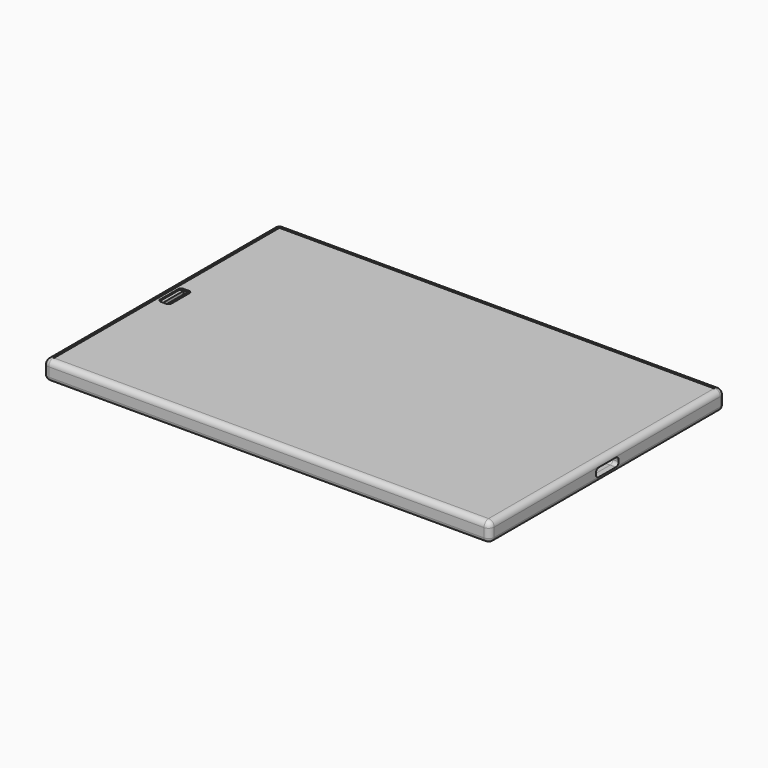
from build123d import *

# Parameters (mm, degrees)
BOX005_W          = 147
BOX005_H          = 97
BOX005_DEPTH      = 1
CYLINDER008_R     = 1
CYLINDER008_DEPTH = 10
CYLINDER006_R     = 5
CYLINDER006_DEPTH = 10
CYLINDER007_R     = 2.5
CYLINDER007_DEPTH = 10
BOX008_W          = 154
BOX008_H          = 100
BOX008_DEPTH      = 1.5
BOX007_W          = 4
BOX007_H          = 10
BOX007_DEPTH      = 10
FILLET001_R       = 1
BOX006_W          = 154
BOX006_H          = 100
BOX006_DEPTH      = 0.5
BOX011_W          = 50
BOX011_H          = 98
BOX011_DEPTH      = 2
BOX012_W          = 81
BOX012_H          = 98
BOX012_DEPTH      = 3.5
BOX015_W          = 11
BOX015_H          = 10
BOX015_DEPTH      = 3
FILLET003_R       = 1.2
BOX014_W          = 2
BOX014_H          = 87
BOX014_DEPTH      = 10
BOX010_W          = 29
BOX010_H          = 5
BOX010_DEPTH      = 3
BOX009_W          = 8
BOX009_H          = 5
BOX009_DEPTH      = 3
BOX004_W          = 5
BOX004_H          = 3
BOX004_DEPTH      = 10
FILLET_R          = 1.4
CYLINDER005_R     = 2.5
CYLINDER005_DEPTH = 10
CYLINDER004_R     = 2
CYLINDER004_DEPTH = 10
CYLINDER003_R     = 1
CYLINDER003_DEPTH = 10
BOX003_W          = 1.5
BOX003_H          = 10
BOX003_DEPTH      = 14
BOX002_W          = 2
BOX002_H          = 21
BOX002_DEPTH      = 10
CYLINDER002_R     = 5
CYLINDER002_DEPTH = 10
CYLINDER001_R     = 5
CYLINDER001_DEPTH = 10
CYLINDER_R        = 5
CYLINDER_DEPTH    = 10
BOX001_W          = 154
BOX001_H          = 100
BOX001_DEPTH      = 10
BOX_W             = 154
BOX_H             = 100
BOX_DEPTH         = 4.7
THICKNESS_T       = 2
FILLET002_R       = 1.5
BOX013_W          = 19
BOX013_H          = 100
BOX013_DEPTH      = 4


with BuildPart() as pantalla:
    # Box005 → Box005 (new body)
    with BuildSketch(Plane(origin=(7, 1.5, 5), x_dir=(1, 0, 0), z_dir=(0, 0, 1))):
        with Locations((73.5, 48.5)):
            Rectangle(BOX005_W, BOX005_H)
    extrude(amount=BOX005_DEPTH)


with BuildPart() as cilindro008:
    # Cylinder008 → Cylinder008 (new body)
    with BuildSketch(Plane(origin=(10, 41, 0), x_dir=(1, 0, 0), z_dir=(0, 0, 1))):
        Circle(CYLINDER008_R)
    extrude(amount=CYLINDER008_DEPTH)


with BuildPart() as cilindro006:
    # Cylinder006 → Cylinder006 (new body)
    with BuildSketch(Plane(origin=(10, 50, -7), x_dir=(1, 0, 0), z_dir=(0, 0, 1))):
        Circle(CYLINDER006_R)
    extrude(amount=CYLINDER006_DEPTH)


with BuildPart() as cilindro007:
    # Cylinder007 → Cylinder007 (new body)
    with BuildSketch(Plane(origin=(20, 50, -7), x_dir=(1, 0, 0), z_dir=(0, 0, 1))):
        Circle(CYLINDER007_R)
    extrude(amount=CYLINDER007_DEPTH)


with BuildPart() as obj1:
    # Box008 → Box008 (new body)
    with BuildSketch(Plane.XY):
        with Locations((77, 50)):
            Rectangle(BOX008_W, BOX008_H)
    extrude(amount=BOX008_DEPTH)

    # Cut014: cut Cilindro007
    add(cilindro007.part, mode=Mode.SUBTRACT)

    # Cut015: cut Cilindro006
    add(cilindro006.part, mode=Mode.SUBTRACT)

    # Cut016: cut Cilindro008
    add(cilindro008.part, mode=Mode.SUBTRACT)


with BuildPart() as fillet001:
    # Box007 → Box007 (new body)
    with BuildSketch(Plane(origin=(1, 45, 6), x_dir=(1, 0, 0), z_dir=(0, 0, 1))):
        with Locations((2, 5)):
            Rectangle(BOX007_W, BOX007_H)
    extrude(amount=BOX007_DEPTH)

    # Fillet001
    fillet001_edges = [fillet001.edges().sort_by_distance(p)[0] for p in [
        (1, 45, 11),
        (1, 55, 11),
        (5, 45, 11),
        (5, 55, 11),
    ]]
    fillet(fillet001_edges, radius=FILLET001_R)


with BuildPart() as touch:
    # Box006 → Box006 (new body)
    with BuildSketch(Plane.XY.offset(6)):
        with Locations((77, 50)):
            Rectangle(BOX006_W, BOX006_H)
    extrude(amount=BOX006_DEPTH)

    # Cut019: cut Fillet001
    add(fillet001.part, mode=Mode.SUBTRACT)


with BuildPart() as electronics:
    # Box011 → Box011 (new body)
    with BuildSketch(Plane(origin=(0, 1, 2.5), x_dir=(1, 0, 0), z_dir=(0, 0, 1))):
        with Locations((25, 49)):
            Rectangle(BOX011_W, BOX011_H)
    extrude(amount=BOX011_DEPTH)


with BuildPart() as battery:
    # Box012 → Box012 (new body)
    with BuildSketch(Plane(origin=(53, 1, 1), x_dir=(1, 0, 0), z_dir=(0, 0, 1))):
        with Locations((40.5, 49)):
            Rectangle(BOX012_W, BOX012_H)
    extrude(amount=BOX012_DEPTH)


with BuildPart() as fillet003:
    # Box015 → Box015 (new body)
    with BuildSketch(Plane(origin=(148, 45, 1.5), x_dir=(1, 0, 0), z_dir=(0, 0, 1))):
        with Locations((5.5, 5)):
            Rectangle(BOX015_W, BOX015_H)
    extrude(amount=BOX015_DEPTH)

    # Fillet003
    fillet003_edges = [fillet003.edges().sort_by_distance(p)[0] for p in [
        (148, 45, 3),
        (148, 55, 3),
        (159, 45, 3),
        (159, 55, 3),
        (153.5, 45, 1.5),
        (153.5, 45, 4.5),
        (153.5, 55, 1.5),
        (153.5, 55, 4.5),
    ]]
    fillet(fillet003_edges, radius=FILLET003_R)


with BuildPart() as cubo010:
    # Box014 → Box014 (new body)
    with BuildSketch(Plane(origin=(132, 6, 1), x_dir=(1, 0, 0), z_dir=(0, 0, 1))):
        with Locations((1, 43.5)):
            Rectangle(BOX014_W, BOX014_H)
    extrude(amount=BOX014_DEPTH)


with BuildPart() as cubo009:
    # Box010 → Box010 (new body)
    with BuildSketch(Plane(origin=(41, 100, 1), x_dir=(1, 0, 0), z_dir=(0, 0, 1))):
        with Locations((14.5, 2.5)):
            Rectangle(BOX010_W, BOX010_H)
    extrude(amount=BOX010_DEPTH)


with BuildPart() as cubo008:
    # Box009 → Box009 (new body)
    with BuildSketch(Plane(origin=(75, 100, 1), x_dir=(1, 0, 0), z_dir=(0, 0, 1))):
        with Locations((4, 2.5)):
            Rectangle(BOX009_W, BOX009_H)
    extrude(amount=BOX009_DEPTH)


with BuildPart() as fillet_body:
    # Box004 → Box004 (new body)
    with BuildSketch(Plane(origin=(0.5, 58, 0), x_dir=(1, 0, 0), z_dir=(0, 0, 1))):
        with Locations((2.5, 1.5)):
            Rectangle(BOX004_W, BOX004_H)
    extrude(amount=BOX004_DEPTH)

    # Fillet
    fillet_edges = [fillet_body.edges().sort_by_distance(p)[0] for p in [
        (0.5, 58, 5),
        (0.5, 61, 5),
        (5.5, 58, 5),
        (5.5, 61, 5),
    ]]
    fillet(fillet_edges, radius=FILLET_R)


with BuildPart() as fillet_body_1:
    # Fillet placement: moved
    add(fillet_body.part.moved(Location((0, 2, 0))))


with BuildPart() as cilindro005:
    # Cylinder005 → Cylinder005 (new body)
    with BuildSketch(Plane(origin=(3.5, 69, -4.5), x_dir=(1, 0, 0), z_dir=(0, 0, 1))):
        Circle(CYLINDER005_R)
    extrude(amount=CYLINDER005_DEPTH)


with BuildPart() as cilindro004:
    # Cylinder004 → Cylinder004 (new body)
    with BuildSketch(Plane(origin=(3.4, 69, 0), x_dir=(1, 0, 0), z_dir=(0, 0, 1))):
        Circle(CYLINDER004_R)
    extrude(amount=CYLINDER004_DEPTH)


with BuildPart() as cilindro003:
    # Cylinder003 → Cylinder003 (new body)
    with BuildSketch(Plane(origin=(3, 97, 0), x_dir=(1, 0, 0), z_dir=(0, 0, 1))):
        Circle(CYLINDER003_R)
    extrude(amount=CYLINDER003_DEPTH)


with BuildPart() as cubo003:
    # Box003 → Box003 (new body)
    with BuildSketch(Plane(origin=(2, 45, 0), x_dir=(1, 0, 0), z_dir=(0, 0, 1))):
        with Locations((0.75, 5)):
            Rectangle(BOX003_W, BOX003_H)
    extrude(amount=BOX003_DEPTH)


with BuildPart() as cubo002:
    # Box002 → Box002 (new body)
    with BuildSketch(Plane(origin=(1, 2, 0), x_dir=(1, 0, 0), z_dir=(0, 0, 1))):
        with Locations((1, 10.5)):
            Rectangle(BOX002_W, BOX002_H)
    extrude(amount=BOX002_DEPTH)


with BuildPart() as cilindro002:
    # Cylinder002 → Cylinder002 (new body)
    with BuildSketch(Plane(origin=(101, 15, 0), x_dir=(1, 0, 0), z_dir=(0, 0, 1))):
        Circle(CYLINDER002_R)
    extrude(amount=CYLINDER002_DEPTH)


with BuildPart() as cilindro001:
    # Cylinder001 → Cylinder001 (new body)
    with BuildSketch(Plane(origin=(101, 83, 0), x_dir=(1, 0, 0), z_dir=(0, 0, 1))):
        Circle(CYLINDER001_R)
    extrude(amount=CYLINDER001_DEPTH)


with BuildPart() as cilindro:
    # Cylinder → Cylinder (new body)
    with BuildSketch(Plane(origin=(125, 47, 0), x_dir=(1, 0, 0), z_dir=(0, 0, 1))):
        Circle(CYLINDER_R)
    extrude(amount=CYLINDER_DEPTH)


with BuildPart() as cubo001:
    # Box001 → Box001 (new body)
    with BuildSketch(Plane.XY.offset(5.8)):
        with Locations((77, 50)):
            Rectangle(BOX001_W, BOX001_H)
    extrude(amount=BOX001_DEPTH)


with BuildPart() as cut021:
    # Box → Box (new body)
    with BuildSketch(Plane.XY):
        with Locations((77, 50)):
            Rectangle(BOX_W, BOX_H)
    extrude(amount=BOX_DEPTH)

    # Thickness
    thickness_openings = [cut021.faces().sort_by_distance(p)[0] for p in [
        (77, 50, 0),
    ]]
    offset(amount=THICKNESS_T, openings=thickness_openings)

    # Cut: cut Cubo001
    add(cubo001.part, mode=Mode.SUBTRACT)

    # Cut001: cut Cilindro
    add(cilindro.part, mode=Mode.SUBTRACT)

    # Cut002: cut Cilindro001
    add(cilindro001.part, mode=Mode.SUBTRACT)

    # Cut003: cut Cilindro002
    add(cilindro002.part, mode=Mode.SUBTRACT)

    # Cut004: cut Cubo002
    add(cubo002.part, mode=Mode.SUBTRACT)

    # Cut005: cut Cubo003
    add(cubo003.part, mode=Mode.SUBTRACT)

    # Cut006: cut Cilindro003
    add(cilindro003.part, mode=Mode.SUBTRACT)

    # Cut007: cut Cilindro004
    add(cilindro004.part, mode=Mode.SUBTRACT)

    # Cut008: cut Cilindro005
    add(cilindro005.part, mode=Mode.SUBTRACT)

    # Cut009: cut Fillet body
    add(fillet_body_1.part, mode=Mode.SUBTRACT)

    # Fillet002
    fillet002_edges = [cut021.edges().sort_by_distance(p)[0] for p in [
        (-2, 50, 0),
        (77, -2, 0),
        (156, 50, 0),
        (77, 102, 0),
    ]]
    fillet(fillet002_edges, radius=FILLET002_R)

    # Cut017: cut Cubo008
    add(cubo008.part, mode=Mode.SUBTRACT)

    # Cut018: cut Cubo009
    add(cubo009.part, mode=Mode.SUBTRACT)

    # Cut020: cut Cubo010
    add(cubo010.part, mode=Mode.SUBTRACT)

    # Cut021: cut Fillet003
    add(fillet003.part, mode=Mode.SUBTRACT)


with BuildPart() as cut022:
    # Box013 → Box013 (new body)
    with BuildSketch(Plane(origin=(135, 0, 1), x_dir=(1, 0, 0), z_dir=(0, 0, 1))):
        with Locations((9.5, 50)):
            Rectangle(BOX013_W, BOX013_H)
    extrude(amount=BOX013_DEPTH)

    # Cut022: cut Fillet003
    add(fillet003.part, mode=Mode.SUBTRACT)


solid = Compound([pantalla.part, obj1.part, touch.part, electronics.part, battery.part, cut021.part, cut022.part])
